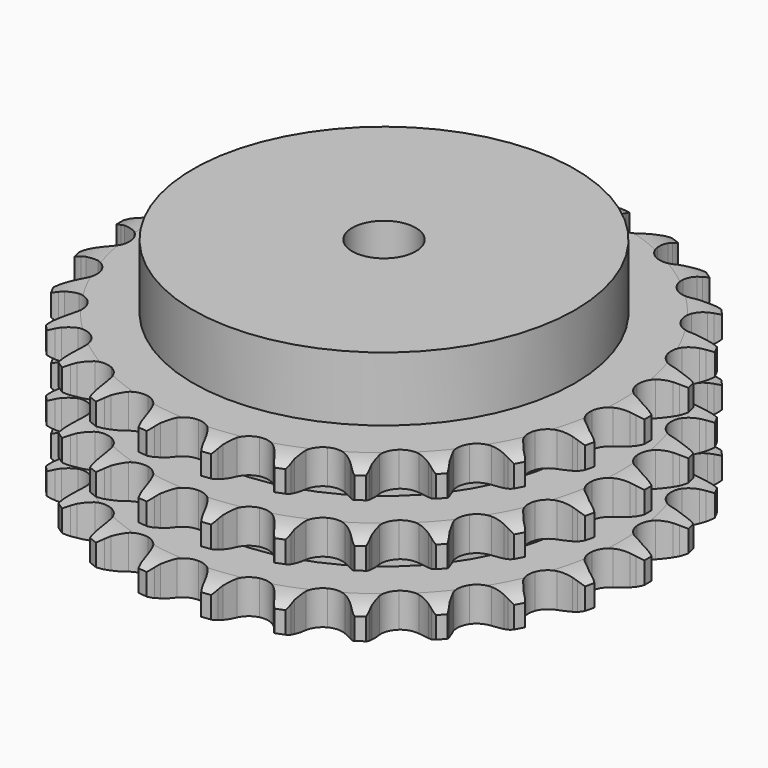
from build123d import *

# Parameters (mm, degrees)
PAD_DEPTH         = 49.8
SKETCH001_R       = 60
PAD001_DEPTH      = 70
SKETCH002_R       = 10
POCKET_DEPTH      = 0.001
POCKET_DEPTH_BACK = 70.001


with BuildPart() as part:
    # Sprocket → Pad (new body)
    with BuildSketch(Plane.XY):
        with BuildLine():
            ThreePointArc((-10.2495, 84.412229), (-8.684067, 82.666915), (-7.573609, 80.602071))
            Line((-7.573609, 80.602071), (-6.986274, 79.108095))
            ThreePointArc((-6.986274, 79.108095), (-6.051469, 77.141444), (-4.854497, 75.322423))
            ThreePointArc((-4.854497, 75.322423), (-2.708592, 73.552266), (0, 72.918314))
            ThreePointArc((0, 72.918314), (2.708592, 73.552266), (4.854497, 75.322423))
            ThreePointArc((4.854497, 75.322423), (6.051469, 77.141444), (6.986274, 79.108095))
            Line((6.986274, 79.108095), (7.573609, 80.602071))
            ThreePointArc((7.573609, 80.602071), (8.684067, 82.666915), (10.2495, 84.412229))
            ThreePointArc((10.2495, 84.412229), (11.351764, 82.342998), (11.935805, 80.072404))
            Line((11.935805, 80.072404), (12.148541, 78.481282))
            ThreePointArc((12.148541, 78.481282), (12.585532, 76.348065), (13.312402, 74.295448))
            ThreePointArc((13.312402, 74.295448), (14.972324, 72.063179), (17.450495, 70.79944))
            ThreePointArc((17.450495, 70.79944), (20.232095, 70.766762), (22.73927, 71.971933))
            Line((22.73927, 71.971933), (25.715072, 75.137432))
            ThreePointArc((25.715072, 75.137432), (26.162281, 75.804256), (26.642871, 76.447438))
            ThreePointArc((26.642871, 76.447438), (28.215212, 78.186532), (30.152837, 79.506497))
            ThreePointArc((30.152837, 79.506497), (30.727872, 77.233605), (30.751553, 74.88922))
            Line((30.751553, 74.88922), (30.577326, 73.293422))
            ThreePointArc((30.577326, 73.293422), (30.491107, 71.117614), (30.705632, 68.950691))
            ThreePointArc((30.705632, 68.950691), (31.783103, 66.386042), (33.88683, 64.56596))
            ThreePointArc((33.88683, 64.56596), (36.579781, 63.868552), (39.302519, 64.438696))
            Line((39.302519, 64.438696), (42.949403, 66.800056))
            ThreePointArc((42.949403, 66.800056), (43.543198, 67.340479), (44.163747, 67.849958))
            ThreePointArc((44.163747, 67.849958), (46.106591, 69.162231), (48.303801, 69.980137))
            ThreePointArc((48.303801, 69.980137), (48.318187, 67.635676), (47.780132, 65.353748))
            Line((47.780132, 65.353748), (47.229069, 63.846016))
            ThreePointArc((47.229069, 63.846016), (46.62465, 61.754066), (46.314363, 59.59877))
            ThreePointArc((46.314363, 59.59877), (46.746764, 56.85079), (48.353786, 54.580142))
            ThreePointArc((48.353786, 54.580142), (50.801584, 53.258533), (53.581649, 53.160517))
            Line((53.581649, 53.160517), (57.687671, 54.580503))
            ThreePointArc((57.687671, 54.580503), (58.393543, 54.963117), (59.117987, 55.309285))
            ThreePointArc((59.117987, 55.309285), (61.318422, 56.118473), (63.647523, 56.386785))
            ThreePointArc((63.647523, 56.386785), (63.100425, 54.107007), (62.031904, 52.020152))
            Line((62.031904, 52.020152), (61.13603, 50.68811))
            ThreePointArc((61.13603, 50.68811), (60.048538, 48.801596), (59.231471, 46.783186))
            ThreePointArc((59.231471, 46.783186), (58.993672, 44.011577), (60.010596, 41.422324))
            ThreePointArc((60.010596, 41.422324), (62.070984, 39.553322), (64.746808, 38.792841))
            Line((64.746808, 38.792841), (69.073341, 39.188929))
            ThreePointArc((69.073341, 39.188929), (69.850268, 39.391499), (70.636504, 39.554237))
            ThreePointArc((70.636504, 39.554237), (72.96665, 39.813313), (75.292282, 39.516438))
            ThreePointArc((75.292282, 39.516438), (74.215496, 37.433836), (72.678607, 35.663335))
            Line((72.678607, 35.663335), (71.489986, 34.584397))
            ThreePointArc((71.489986, 34.584397), (69.982623, 33.012954), (68.706261, 31.248733))
            ThreePointArc((68.706261, 31.248733), (67.812083, 28.61457), (68.179808, 25.85719))
            ThreePointArc((68.179808, 25.85719), (69.733043, 23.549415), (72.149118, 22.170666))
            Line((72.149118, 22.170666), (76.44472, 21.519837))
            ThreePointArc((76.44472, 21.519837), (77.247549, 21.530591), (78.049884, 21.500441))
            ThreePointArc((78.049884, 21.500441), (80.374321, 21.194348), (82.561328, 20.34954))
            ThreePointArc((82.561328, 20.34954), (81.017432, 18.585146), (79.101493, 17.233894))
            Line((79.101493, 17.233894), (77.689205, 16.470763))
            ThreePointArc((77.689205, 16.470763), (75.849572, 15.30572), (74.188093, 13.898217))
            ThreePointArc((74.188093, 13.898217), (72.689502, 11.554589), (72.386657, 8.789331))
            ThreePointArc((72.386657, 8.789331), (73.342472, 6.176903), (75.358383, 4.260013))
            Line((75.358383, 4.260013), (79.37341, 2.600091))
            ThreePointArc((79.37341, 2.600091), (80.155483, 2.418402), (80.927288, 2.197118))
            ThreePointArc((80.927288, 2.197118), (83.110929, 1.343645), (85.03221, 0))
            ThreePointArc((85.03221, 0), (83.110929, -1.343645), (80.927288, -2.197118))
            Line((80.927288, -2.197118), (79.37341, -2.600091))
            ThreePointArc((79.37341, -2.600091), (77.30842, -3.291027), (75.358383, -4.260013))
            ThreePointArc((75.358383, -4.260013), (73.342472, -6.176903), (72.386657, -8.789331))
            ThreePointArc((72.386657, -8.789331), (72.689502, -11.554589), (74.188093, -13.898217))
            Line((74.188093, -13.898217), (77.689205, -16.470763))
            ThreePointArc((77.689205, -16.470763), (78.405072, -16.834335), (79.101493, -17.233894))
            ThreePointArc((79.101493, -17.233894), (81.017432, -18.585146), (82.561328, -20.34954))
            ThreePointArc((82.561328, -20.34954), (80.374321, -21.194348), (78.049884, -21.500441))
            Line((78.049884, -21.500441), (76.44472, -21.519837))
            ThreePointArc((76.44472, -21.519837), (74.274383, -21.696512), (72.149118, -22.170666))
            ThreePointArc((72.149118, -22.170666), (69.733043, -23.549415), (68.179808, -25.85719))
            ThreePointArc((68.179808, -25.85719), (67.812083, -28.61457), (68.706261, -31.248733))
            Line((68.706261, -31.248733), (71.489986, -34.584397))
            ThreePointArc((71.489986, -34.584397), (72.098043, -35.108722), (72.678607, -35.663335))
            ThreePointArc((72.678607, -35.663335), (74.215496, -37.433836), (75.292282, -39.516438))
            ThreePointArc((75.292282, -39.516438), (72.96665, -39.813313), (70.636504, -39.554237))
            Line((70.636504, -39.554237), (69.073341, -39.188929))
            ThreePointArc((69.073341, -39.188929), (66.92379, -38.841074), (64.746808, -38.792841))
            ThreePointArc((64.746808, -38.792841), (62.070984, -39.553322), (60.010596, -41.422324))
            ThreePointArc((60.010596, -41.422324), (58.993672, -44.011577), (59.231471, -46.783186))
            Line((59.231471, -46.783186), (61.13603, -50.68811))
            ThreePointArc((61.13603, -50.68811), (61.600938, -51.342717), (62.031904, -52.020152))
            ThreePointArc((62.031904, -52.020152), (63.100425, -54.107007), (63.647523, -56.386785))
            ThreePointArc((63.647523, -56.386785), (61.318422, -56.118473), (59.117987, -55.309285))
            Line((59.117987, -55.309285), (57.687671, -54.580503))
            ThreePointArc((57.687671, -54.580503), (55.683828, -53.728334), (53.581649, -53.160517))
            ThreePointArc((53.581649, -53.160517), (50.801584, -53.258533), (48.353786, -54.580142))
            ThreePointArc((48.353786, -54.580142), (46.746764, -56.85079), (46.314363, -59.59877))
            Line((46.314363, -59.59877), (47.229069, -63.846016))
            ThreePointArc((47.229069, -63.846016), (47.523811, -64.59286), (47.780132, -65.353748))
            ThreePointArc((47.780132, -65.353748), (48.318187, -67.635676), (48.303801, -69.980137))
            ThreePointArc((48.303801, -69.980137), (46.106591, -69.162231), (44.163747, -67.849958))
            Line((44.163747, -67.849958), (42.949403, -66.800056))
            ThreePointArc((42.949403, -66.800056), (41.207726, -65.493099), (39.302519, -64.438696))
            ThreePointArc((39.302519, -64.438696), (36.579781, -63.868552), (33.88683, -64.56596))
            ThreePointArc((33.88683, -64.56596), (31.783103, -66.386042), (30.705632, -68.950691))
            Line((30.705632, -68.950691), (30.577326, -73.293422))
            ThreePointArc((30.577326, -73.293422), (30.684772, -74.089102), (30.751553, -74.88922))
            ThreePointArc((30.751553, -74.88922), (30.727872, -77.233605), (30.152837, -79.506497))
            ThreePointArc((30.152837, -79.506497), (28.215212, -78.186532), (26.642871, -76.447438))
            Line((26.642871, -76.447438), (25.715072, -75.137432))
            ThreePointArc((25.715072, -75.137432), (24.33678, -73.451642), (22.73927, -71.971933))
            ThreePointArc((22.73927, -71.971933), (20.232095, -70.766762), (17.450495, -70.79944))
            ThreePointArc((17.450495, -70.79944), (14.972324, -72.063179), (13.312402, -74.295448))
            Line((13.312402, -74.295448), (12.148541, -78.481282))
            ThreePointArc((12.148541, -78.481282), (12.062445, -79.279553), (11.935805, -80.072404))
            ThreePointArc((11.935805, -80.072404), (11.351764, -82.342998), (10.2495, -84.412229))
            ThreePointArc((10.2495, -84.412229), (8.684067, -82.666915), (7.573609, -80.602071))
            Line((7.573609, -80.602071), (6.986274, -79.108095))
            ThreePointArc((6.986274, -79.108095), (6.051469, -77.141444), (4.854497, -75.322423))
            ThreePointArc((4.854497, -75.322423), (2.708592, -73.552266), (0, -72.918314))
            ThreePointArc((0, -72.918314), (-2.708592, -73.552266), (-4.854497, -75.322423))
            Line((-4.854497, -75.322423), (-6.986274, -79.108095))
            ThreePointArc((-6.986274, -79.108095), (-7.260906, -79.862566), (-7.573609, -80.602071))
            ThreePointArc((-7.573609, -80.602071), (-8.684067, -82.666915), (-10.2495, -84.412229))
            ThreePointArc((-10.2495, -84.412229), (-11.351764, -82.342998), (-11.935805, -80.072404))
            Line((-11.935805, -80.072404), (-12.148541, -78.481282))
            ThreePointArc((-12.148541, -78.481282), (-12.585532, -76.348065), (-13.312402, -74.295448))
            ThreePointArc((-13.312402, -74.295448), (-14.972324, -72.063179), (-17.450495, -70.79944))
            ThreePointArc((-17.450495, -70.79944), (-20.232095, -70.766762), (-22.73927, -71.971933))
            Line((-22.73927, -71.971933), (-25.715072, -75.137432))
            ThreePointArc((-25.715072, -75.137432), (-26.162281, -75.804256), (-26.642871, -76.447438))
            ThreePointArc((-26.642871, -76.447438), (-28.215212, -78.186532), (-30.152837, -79.506497))
            ThreePointArc((-30.152837, -79.506497), (-30.727872, -77.233605), (-30.751553, -74.88922))
            Line((-30.751553, -74.88922), (-30.577326, -73.293422))
            ThreePointArc((-30.577326, -73.293422), (-30.491107, -71.117614), (-30.705632, -68.950691))
            ThreePointArc((-30.705632, -68.950691), (-31.783103, -66.386042), (-33.88683, -64.56596))
            ThreePointArc((-33.88683, -64.56596), (-36.579781, -63.868552), (-39.302519, -64.438696))
            Line((-39.302519, -64.438696), (-42.949403, -66.800056))
            ThreePointArc((-42.949403, -66.800056), (-43.543198, -67.340479), (-44.163747, -67.849958))
            ThreePointArc((-44.163747, -67.849958), (-46.106591, -69.162231), (-48.303801, -69.980137))
            ThreePointArc((-48.303801, -69.980137), (-48.318187, -67.635676), (-47.780132, -65.353748))
            Line((-47.780132, -65.353748), (-47.229069, -63.846016))
            ThreePointArc((-47.229069, -63.846016), (-46.62465, -61.754066), (-46.314363, -59.59877))
            ThreePointArc((-46.314363, -59.59877), (-46.746764, -56.85079), (-48.353786, -54.580142))
            ThreePointArc((-48.353786, -54.580142), (-50.801584, -53.258533), (-53.581649, -53.160517))
            Line((-53.581649, -53.160517), (-57.687671, -54.580503))
            ThreePointArc((-57.687671, -54.580503), (-58.393543, -54.963117), (-59.117987, -55.309285))
            ThreePointArc((-59.117987, -55.309285), (-61.318422, -56.118473), (-63.647523, -56.386785))
            ThreePointArc((-63.647523, -56.386785), (-63.100425, -54.107007), (-62.031904, -52.020152))
            Line((-62.031904, -52.020152), (-61.13603, -50.68811))
            ThreePointArc((-61.13603, -50.68811), (-60.048538, -48.801596), (-59.231471, -46.783186))
            ThreePointArc((-59.231471, -46.783186), (-58.993672, -44.011577), (-60.010596, -41.422324))
            ThreePointArc((-60.010596, -41.422324), (-62.070984, -39.553322), (-64.746808, -38.792841))
            Line((-64.746808, -38.792841), (-69.073341, -39.188929))
            ThreePointArc((-69.073341, -39.188929), (-69.850268, -39.391499), (-70.636504, -39.554237))
            ThreePointArc((-70.636504, -39.554237), (-72.96665, -39.813313), (-75.292282, -39.516438))
            ThreePointArc((-75.292282, -39.516438), (-74.215496, -37.433836), (-72.678607, -35.663335))
            Line((-72.678607, -35.663335), (-71.489986, -34.584397))
            ThreePointArc((-71.489986, -34.584397), (-69.982623, -33.012954), (-68.706261, -31.248733))
            ThreePointArc((-68.706261, -31.248733), (-67.812083, -28.61457), (-68.179808, -25.85719))
            ThreePointArc((-68.179808, -25.85719), (-69.733043, -23.549415), (-72.149118, -22.170666))
            Line((-72.149118, -22.170666), (-76.44472, -21.519837))
            ThreePointArc((-76.44472, -21.519837), (-77.247549, -21.530591), (-78.049884, -21.500441))
            ThreePointArc((-78.049884, -21.500441), (-80.374321, -21.194348), (-82.561328, -20.34954))
            ThreePointArc((-82.561328, -20.34954), (-81.017432, -18.585146), (-79.101493, -17.233894))
            Line((-79.101493, -17.233894), (-77.689205, -16.470763))
            ThreePointArc((-77.689205, -16.470763), (-75.849572, -15.30572), (-74.188093, -13.898217))
            ThreePointArc((-74.188093, -13.898217), (-72.689502, -11.554589), (-72.386657, -8.789331))
            ThreePointArc((-72.386657, -8.789331), (-73.342472, -6.176903), (-75.358383, -4.260013))
            Line((-75.358383, -4.260013), (-79.37341, -2.600091))
            ThreePointArc((-79.37341, -2.600091), (-80.155483, -2.418402), (-80.927288, -2.197118))
            ThreePointArc((-80.927288, -2.197118), (-83.110929, -1.343645), (-85.03221, 0))
            ThreePointArc((-85.03221, 0), (-83.110929, 1.343645), (-80.927288, 2.197118))
            Line((-80.927288, 2.197118), (-79.37341, 2.600091))
            ThreePointArc((-79.37341, 2.600091), (-77.30842, 3.291027), (-75.358383, 4.260013))
            ThreePointArc((-75.358383, 4.260013), (-73.342472, 6.176903), (-72.386657, 8.789331))
            ThreePointArc((-72.386657, 8.789331), (-72.689502, 11.554589), (-74.188093, 13.898217))
            Line((-74.188093, 13.898217), (-77.689205, 16.470763))
            ThreePointArc((-77.689205, 16.470763), (-78.405072, 16.834335), (-79.101493, 17.233894))
            ThreePointArc((-79.101493, 17.233894), (-81.017432, 18.585146), (-82.561328, 20.34954))
            ThreePointArc((-82.561328, 20.34954), (-80.374321, 21.194348), (-78.049884, 21.500441))
            Line((-78.049884, 21.500441), (-76.44472, 21.519837))
            ThreePointArc((-76.44472, 21.519837), (-74.274383, 21.696512), (-72.149118, 22.170666))
            ThreePointArc((-72.149118, 22.170666), (-69.733043, 23.549415), (-68.179808, 25.85719))
            ThreePointArc((-68.179808, 25.85719), (-67.812083, 28.61457), (-68.706261, 31.248733))
            Line((-68.706261, 31.248733), (-71.489986, 34.584397))
            ThreePointArc((-71.489986, 34.584397), (-72.098043, 35.108722), (-72.678607, 35.663335))
            ThreePointArc((-72.678607, 35.663335), (-74.215496, 37.433836), (-75.292282, 39.516438))
            ThreePointArc((-75.292282, 39.516438), (-72.96665, 39.813313), (-70.636504, 39.554237))
            Line((-70.636504, 39.554237), (-69.073341, 39.188929))
            ThreePointArc((-69.073341, 39.188929), (-66.92379, 38.841074), (-64.746808, 38.792841))
            ThreePointArc((-64.746808, 38.792841), (-62.070984, 39.553322), (-60.010596, 41.422324))
            ThreePointArc((-60.010596, 41.422324), (-58.993672, 44.011577), (-59.231471, 46.783186))
            Line((-59.231471, 46.783186), (-61.13603, 50.68811))
            ThreePointArc((-61.13603, 50.68811), (-61.600938, 51.342717), (-62.031904, 52.020152))
            ThreePointArc((-62.031904, 52.020152), (-63.100425, 54.107007), (-63.647523, 56.386785))
            ThreePointArc((-63.647523, 56.386785), (-61.318422, 56.118473), (-59.117987, 55.309285))
            Line((-59.117987, 55.309285), (-57.687671, 54.580503))
            ThreePointArc((-57.687671, 54.580503), (-55.683828, 53.728334), (-53.581649, 53.160517))
            ThreePointArc((-53.581649, 53.160517), (-50.801584, 53.258533), (-48.353786, 54.580142))
            ThreePointArc((-48.353786, 54.580142), (-46.746764, 56.85079), (-46.314363, 59.59877))
            Line((-46.314363, 59.59877), (-47.229069, 63.846016))
            ThreePointArc((-47.229069, 63.846016), (-47.523811, 64.59286), (-47.780132, 65.353748))
            ThreePointArc((-47.780132, 65.353748), (-48.318187, 67.635676), (-48.303801, 69.980137))
            ThreePointArc((-48.303801, 69.980137), (-46.106591, 69.162231), (-44.163747, 67.849958))
            Line((-44.163747, 67.849958), (-42.949403, 66.800056))
            ThreePointArc((-42.949403, 66.800056), (-41.207726, 65.493099), (-39.302519, 64.438696))
            ThreePointArc((-39.302519, 64.438696), (-36.579781, 63.868552), (-33.88683, 64.56596))
            ThreePointArc((-33.88683, 64.56596), (-31.783103, 66.386042), (-30.705632, 68.950691))
            Line((-30.705632, 68.950691), (-30.577326, 73.293422))
            ThreePointArc((-30.577326, 73.293422), (-30.684772, 74.089102), (-30.751553, 74.88922))
            ThreePointArc((-30.751553, 74.88922), (-30.727872, 77.233605), (-30.152837, 79.506497))
            ThreePointArc((-30.152837, 79.506497), (-28.215212, 78.186532), (-26.642871, 76.447438))
            Line((-26.642871, 76.447438), (-25.715072, 75.137432))
            ThreePointArc((-25.715072, 75.137432), (-24.33678, 73.451642), (-22.73927, 71.971933))
            ThreePointArc((-22.73927, 71.971933), (-20.232095, 70.766762), (-17.450495, 70.79944))
            ThreePointArc((-17.450495, 70.79944), (-14.972324, 72.063179), (-13.312402, 74.295448))
            Line((-13.312402, 74.295448), (-12.148541, 78.481282))
            ThreePointArc((-12.148541, 78.481282), (-12.062445, 79.279553), (-11.935805, 80.072404))
            ThreePointArc((-11.935805, 80.072404), (-11.351764, 82.342998), (-10.2495, 84.412229))
        make_face()
    extrude(amount=PAD_DEPTH)

    # Sketch → Groove (revolve, cut)
    with BuildSketch(Plane.XZ):
        with BuildLine():
            ThreePointArc((74.464719, 0), (78.823618, 0.506758), (82.95, 2))
            Line((82.95, 2), (82.95, 8.8))
            ThreePointArc((82.95, 8.8), (78.823618, 10.293242), (74.464719, 10.8))
            Line((60, 10.8), (74.464719, 10.8))
            Line((60, 10.8), (60, 19.5))
            Line((60, 19.5), (74.464719, 19.5))
            ThreePointArc((74.464719, 19.5), (78.823618, 20.006758), (82.95, 21.5))
            Line((82.95, 28.3), (82.95, 21.5))
            ThreePointArc((82.95, 28.3), (78.823618, 29.793242), (74.464719, 30.3))
            Line((60, 30.3), (74.464719, 30.3))
            Line((60, 39), (60, 30.3))
            Line((74.464719, 39), (60, 39))
            ThreePointArc((74.464719, 39), (78.823618, 39.506758), (82.95, 41))
            Line((82.95, 41), (82.95, 47.8))
            ThreePointArc((82.95, 47.8), (78.823618, 49.293242), (74.464719, 49.8))
            Line((74.464719, 49.8), (92.95, 49.8))
            Line((92.95, 49.8), (92.95, 0))
            Line((74.464719, 0), (92.95, 0))
        make_face()
    revolve(axis=Axis((0, 0, 0), (0, 0, 1)), mode=Mode.SUBTRACT)

    # Sketch001 → Pad001 (join)
    with BuildSketch(Plane.XY):
        Circle(SKETCH001_R)
    extrude(amount=PAD001_DEPTH)

    # Sketch002 → Pocket (cut, two sides)
    with BuildSketch(Plane.XY) as pocket_sk:
        Circle(SKETCH002_R)
    extrude(amount=-POCKET_DEPTH, mode=Mode.SUBTRACT)
    extrude(pocket_sk.sketch, amount=POCKET_DEPTH_BACK, mode=Mode.SUBTRACT)


solid = part.part
